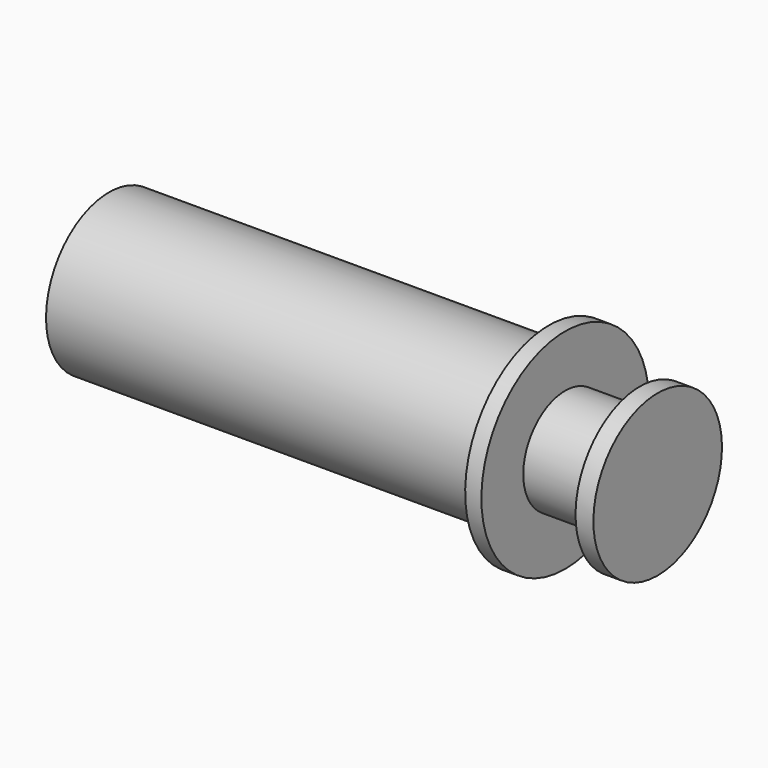
from build123d import *

# Parameters (mm, degrees)
F0_W   = 80.7549711317
F0_H   = 14.4524583593
F0_W_2 = 13.7074887753
F0_H_2 = 9.6101397648


with BuildPart() as f1:
    # F0 (on Front) → F1 (revolve)
    with BuildSketch(Plane.XZ):
        with Locations((-10.87659318, -7.2262291797)):
            Rectangle(F0_W, F0_H)
        Polygon((32.4807800353, 0), (29.5008923858, 0), (29.5008923858, -14.4524583593), (29.5008923858, -19.2202795297), (32.4807800353, -19.2202795297), (32.4807800353, -9.6101397648), align=None)
        with Locations((39.3345244229, -4.8050698824)):
            Rectangle(F0_W_2, F0_H_2)
        Polygon((49.4661442935, 0), (46.1882688105, 0), (46.1882688105, -9.6101397648), (46.1882688105, -14.7504471242), (49.4661442935, -14.7504471242), align=None)
    revolve(axis=Axis((-10.87659318, 0, 0), (1, 0, 0)))


solid = f1.part
